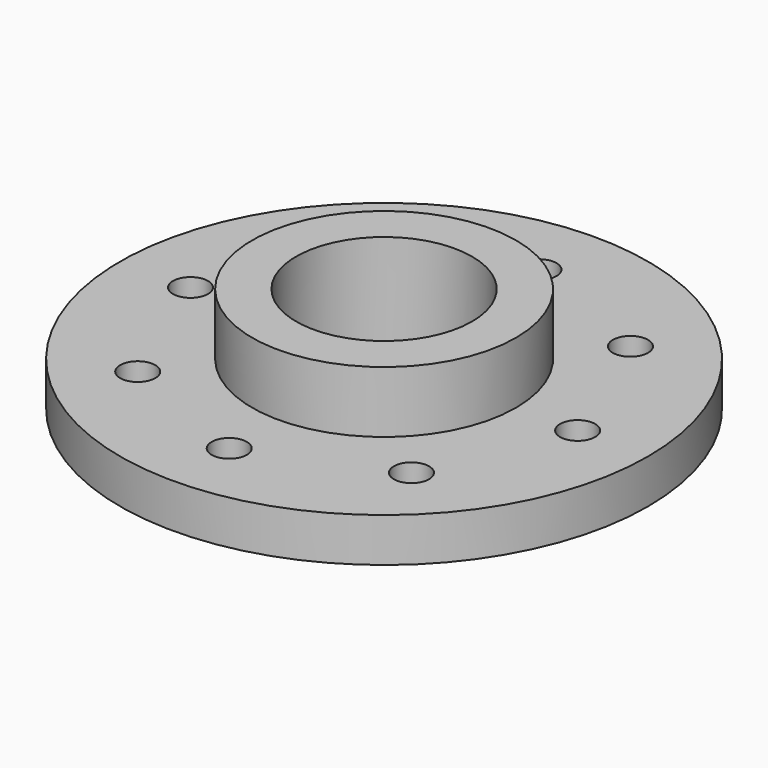
from build123d import *

# Parameters (mm, degrees)
CYLINDER003_R     = 2
CYLINDER003_DEPTH = 10
ARRAY001_COUNT    = 8
CYLINDER002_R     = 10
CYLINDER002_DEPTH = 30
CYLINDER_R        = 30
CYLINDER_DEPTH    = 5
CYLINDER001_R     = 15
CYLINDER001_DEPTH = 12


with BuildPart() as array001:
    # Cylinder003 → Cylinder003 (new body)
    with BuildSketch(Plane(origin=(22, 0, -2), x_dir=(1, 0, 0), z_dir=(0, 0, 1))):
        Circle(CYLINDER003_R)
    extrude(amount=CYLINDER003_DEPTH)

    # Array001: Array001 ×8 about axis
    array001_axis = Axis((0, 0, 1), (0, 0, 1))


with BuildPart() as array001_1:
    add(array001.part)
    for i in range(1, ARRAY001_COUNT):
        add(array001.part.rotate(array001_axis, i * 360 / ARRAY001_COUNT))


with BuildPart() as int:
    # Cylinder002 → Cylinder002 (new body)
    with BuildSketch(Plane.XY.offset(-2)):
        Circle(CYLINDER002_R)
    extrude(amount=CYLINDER002_DEPTH)


with BuildPart() as basis:
    # Cylinder → Cylinder (new body)
    with BuildSketch(Plane.XY):
        Circle(CYLINDER_R)
    extrude(amount=CYLINDER_DEPTH)


with BuildPart() as flange:
    # Cylinder001 → Cylinder001 (new body)
    with BuildSketch(Plane.XY):
        Circle(CYLINDER001_R)
    extrude(amount=CYLINDER001_DEPTH)

    # Fusion: union basis
    add(basis.part)

    # Cut: cut int
    add(int.part, mode=Mode.SUBTRACT)

    # Cut001: cut Array001
    add(array001_1.part, mode=Mode.SUBTRACT)


solid = flange.part
